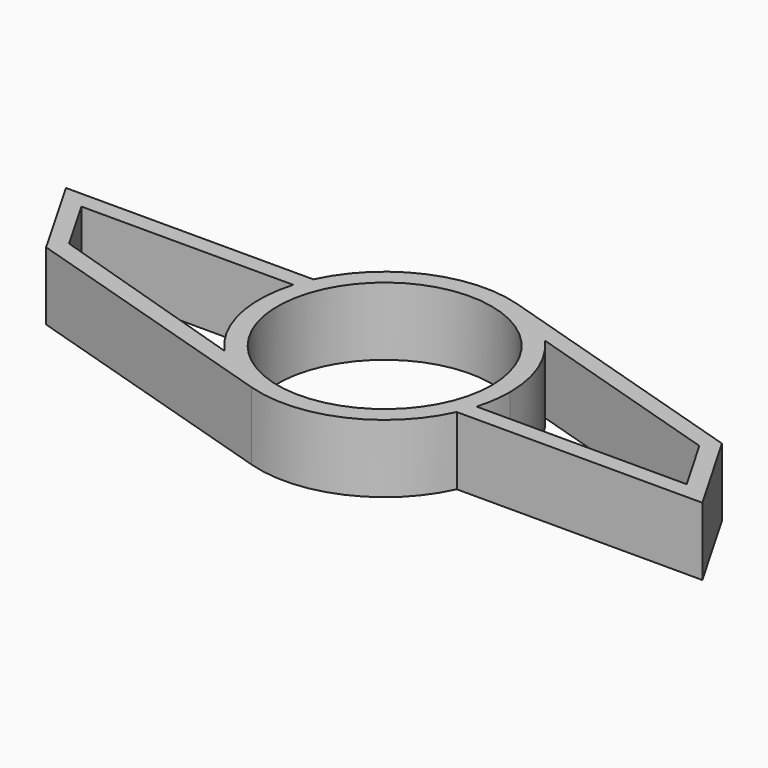
from build123d import *

# Parameters (mm, degrees)
F0_R     = 10.9855
F1_DEPTH = 3.4925


with BuildPart() as f1:
    # F0 (on Top) → F1 (new body, symmetric)
    with BuildSketch(Plane.XY):
        with BuildLine():
            ThreePointArc((12.344502, -3.640052), (12.737942, -1.838894), (12.869992, 0))
            ThreePointArc((12.869992, 0), (11.984513, 4.691285), (9.44992, 8.737032))
            ThreePointArc((9.44992, 8.737032), (6.864119, 10.886716), (3.809726, 12.293197))
            ThreePointArc((3.809726, 12.293197), (-5.212271, 11.767282), (-11.664174, 5.439094))
            ThreePointArc((-11.664174, 5.439094), (-12.02898, 4.576061), (-12.33003, 3.688775))
            ThreePointArc((-12.33003, 3.688775), (-12.542792, -2.883586), (-9.481127, -8.703157))
            ThreePointArc((-9.481127, -8.703157), (-6.883588, -10.874416), (-3.809726, -12.293197))
            ThreePointArc((-3.809726, -12.293197), (5.248434, -11.751198), (11.697406, -5.367252))
            ThreePointArc((11.697406, -5.367252), (12.051935, -4.515259), (12.344502, -3.640052))
        make_face()
        Circle(F0_R, mode=Mode.SUBTRACT)
        with BuildLine():
            ThreePointArc((3.809726, 12.293197), (6.864119, 10.886716), (9.44992, 8.737032))
            Line((9.44992, 8.737032), (30.54745, 2.198797))
            Line((30.54745, 2.198797), (33.918511, -3.640052))
            Line((33.918511, -3.640052), (12.344502, -3.640052))
            ThreePointArc((12.344502, -3.640052), (12.051935, -4.515259), (11.697406, -5.367252))
            Line((11.697406, -5.367252), (36.910109, -5.367252))
            Line((36.910109, -5.367252), (31.704968, 3.648316))
            Line((31.704968, 3.648316), (3.809726, 12.293197))
        make_face()
        with BuildLine():
            ThreePointArc((-12.33003, 3.688775), (-12.02898, 4.576061), (-11.664174, 5.439094))
            Line((-11.664174, 5.439094), (-37.064174, 5.439094))
            Line((-37.064174, 5.439094), (-31.880429, -3.59394))
            Line((-31.880429, -3.59394), (-3.809726, -12.293197))
            ThreePointArc((-3.809726, -12.293197), (-6.883588, -10.874416), (-9.481127, -8.703157))
            Line((-9.481127, -8.703157), (-30.850178, -1.941802))
            Line((-30.850178, -1.941802), (-34.081371, 3.688775))
            Line((-34.081371, 3.688775), (-12.33003, 3.688775))
        make_face()
    extrude(amount=F1_DEPTH, both=True)


solid = f1.part
